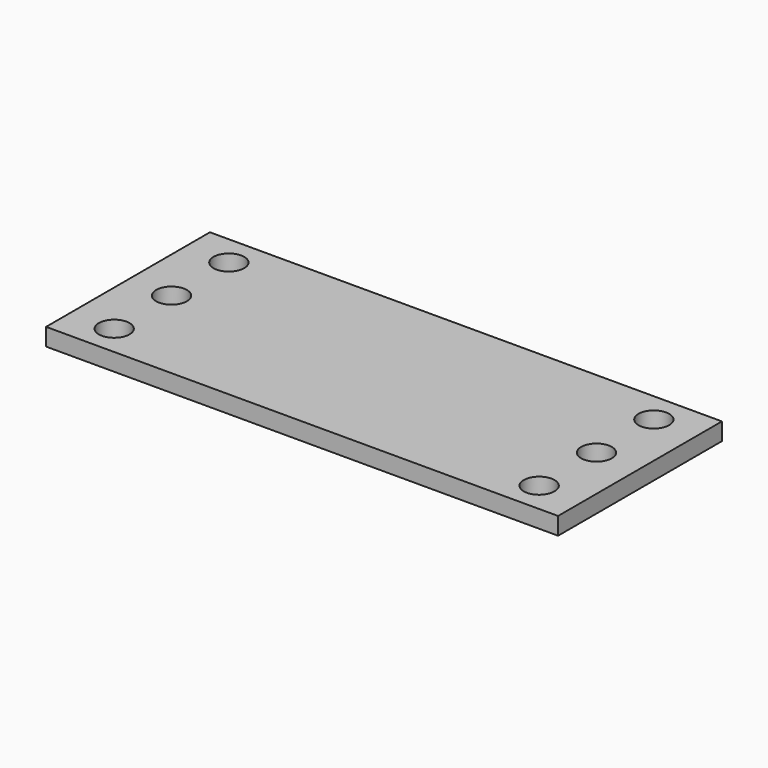
from build123d import *

# Parameters (mm, degrees)
F0_W     = 50
F0_H     = 20
F0_R     = 1.5
F1_DEPTH = 1.7018


with BuildPart() as f1:
    # F0 (on Top) → F1 (new body)
    with BuildSketch(Plane.XY):
        Rectangle(F0_W, F0_H)
        with Locations((-20.75, -7)):
            Circle(F0_R, mode=Mode.SUBTRACT)
        with Locations((20.75, -7)):
            Circle(F0_R, mode=Mode.SUBTRACT)
        with Locations((-20.75, 0)):
            Circle(F0_R, mode=Mode.SUBTRACT)
        with Locations((-20.75, 7)):
            Circle(F0_R, mode=Mode.SUBTRACT)
        with Locations((20.75, 0)):
            Circle(F0_R, mode=Mode.SUBTRACT)
        with Locations((20.75, 7)):
            Circle(F0_R, mode=Mode.SUBTRACT)
    extrude(amount=F1_DEPTH)


solid = f1.part
